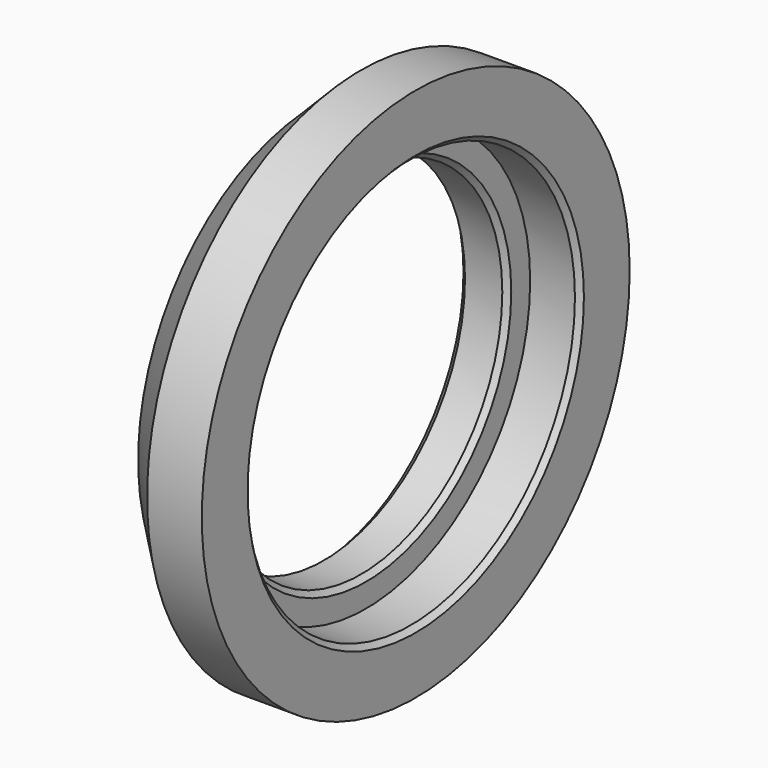
from build123d import *

# Parameters (mm, degrees)
F2_SIZE = 1.8
F3_SIZE = 0.3
F4_SIZE = 0.2


with BuildPart() as f1:
    # F0 (on Top) → F1 (revolve)
    with BuildSketch(Plane.XY):
        Polygon((-2, 7.1), (0, 7.1), (0, 8.25), (2, 8.25), (2, 10.75), (-2, 10.75), align=None)
    revolve(axis=Axis((-1, 0, 0), (-1, 0, 0)))

    # F2
    f2_edges = [f1.edges().sort_by_distance(p)[0] for p in [
        (-2, -10.75, 0),
    ]]
    chamfer(f2_edges, length=F2_SIZE)

    # F3
    f3_edges = [f1.edges().sort_by_distance(p)[0] for p in [
        (-2, -7.1, 0),
    ]]
    chamfer(f3_edges, length=F3_SIZE)

    # F4
    f4_edges = [f1.edges().sort_by_distance(p)[0] for p in [
        (2, -8.25, 0),
        (0, -7.1, 0),
    ]]
    chamfer(f4_edges, length=F4_SIZE)


solid = f1.part
